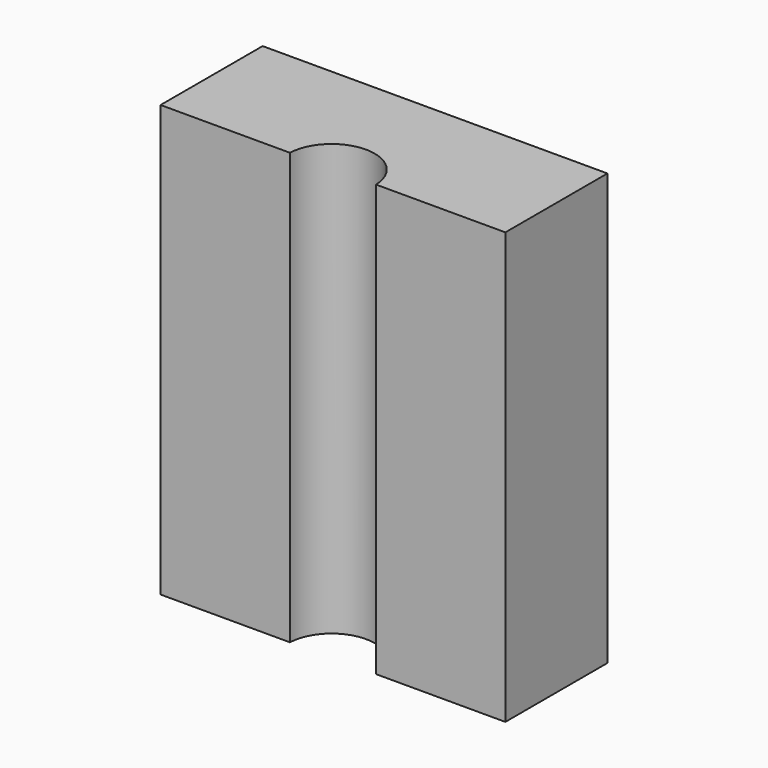
from build123d import *

# Parameters (mm, degrees)
F1_DEPTH = 25


with BuildPart() as f1:
    # F0 (on Top) → F1 (new body)
    with BuildSketch(Plane.XY):
        with BuildLine():
            Line((10, 0.1), (10, 7.5))
            Line((10, 7.5), (-10, 7.5))
            Line((-10, 7.5), (-10, 0.1))
            Line((-10, 0.1), (-2.497999, 0.1))
            ThreePointArc((-2.497999, 0.1), (0, 2.5), (2.497999, 0.1))
            Line((2.497999, 0.1), (10, 0.1))
        make_face()
    extrude(amount=-F1_DEPTH)


solid = f1.part
